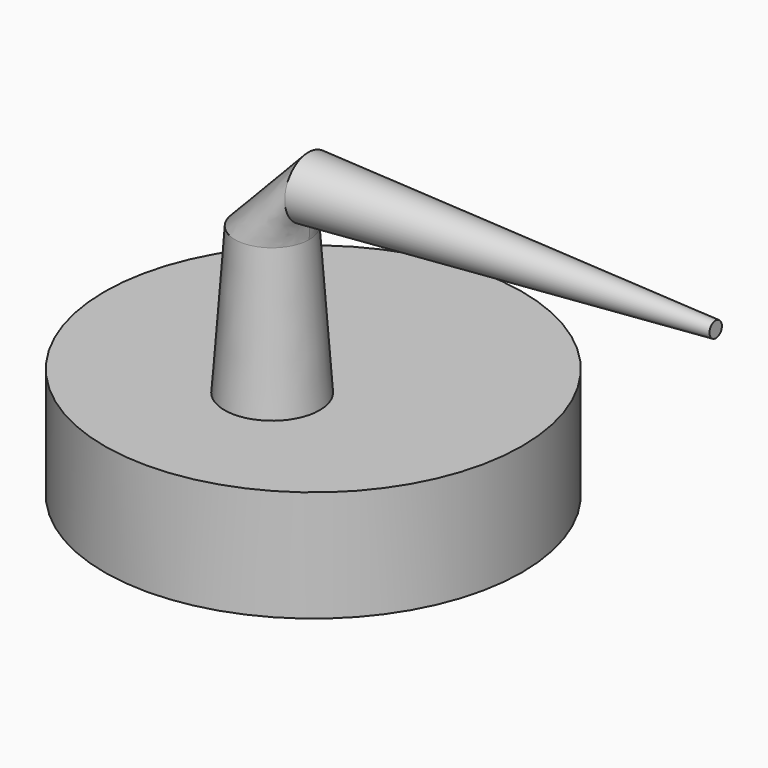
from build123d import *

# Parameters (mm, degrees)
F0_R      = 12.7
F2_R      = 8.470294293
F3_FACE_R = 8.470294293
F6_R      = 6.9140661874
F9_R      = 1.7720974012
F11_R     = 47.7364020656
F12_DEPTH = 25.4


with BuildPart() as f3:
    # F0 (on Top) → F3 section 0
    with BuildSketch(Plane.XY):
        Circle(F0_R)
    # F2 (on offset) → F3 section 1
    with BuildSketch(Plane.XY.offset(58.928)):
        Circle(F2_R)
    loft()

    # F11 (on Top) → F12 (join)
    with BuildSketch(Plane.XY):
        with Locations((0, 11.7550967261)):
            Circle(F11_R)
    extrude(amount=F12_DEPTH)


with BuildPart() as f7:
    # F3_face (on face) → F7 section 0
    with BuildSketch(Plane.XY.offset(58.928)):
        Circle(F3_FACE_R)
    # F6 (on line) → F7 section 1
    with BuildSketch(Plane(origin=(9.5261614685, 0, 0.1527230367), x_dir=(0, 1, 0), z_dir=(0.9998715129, 0, 0.0160298998))):
        with Locations((0, 69.4245696068)):
            Circle(F6_R)
    loft()

    # F7_face (on face) → F10 section 0
    with BuildSketch(Plane(origin=(8.4132925743, 0, 69.568372482), x_dir=(0, 1, 0), z_dir=(0.9998715129, 0, 0.0160298998))):
        with BuildLine():
            ThreePointArc((0, -6.9140661874), (4.8889830867, -4.8889830867), (6.9140661874, 0))
            ThreePointArc((6.9140661874, 0), (-4.8889830867, 4.8889830867), (0, -6.9140661874))
        make_face()
    # F9 (on offset) → F10 section 1
    with BuildSketch(Plane(origin=(102.4782167939, 0, 1.6429266412), x_dir=(0, 1, 0), z_dir=(0.9998715129, 0, 0.0160298998))):
        with Locations((0, 69.4594308734)):
            Circle(F9_R)
    loft()


solid = Compound([f3.part, f7.part])
